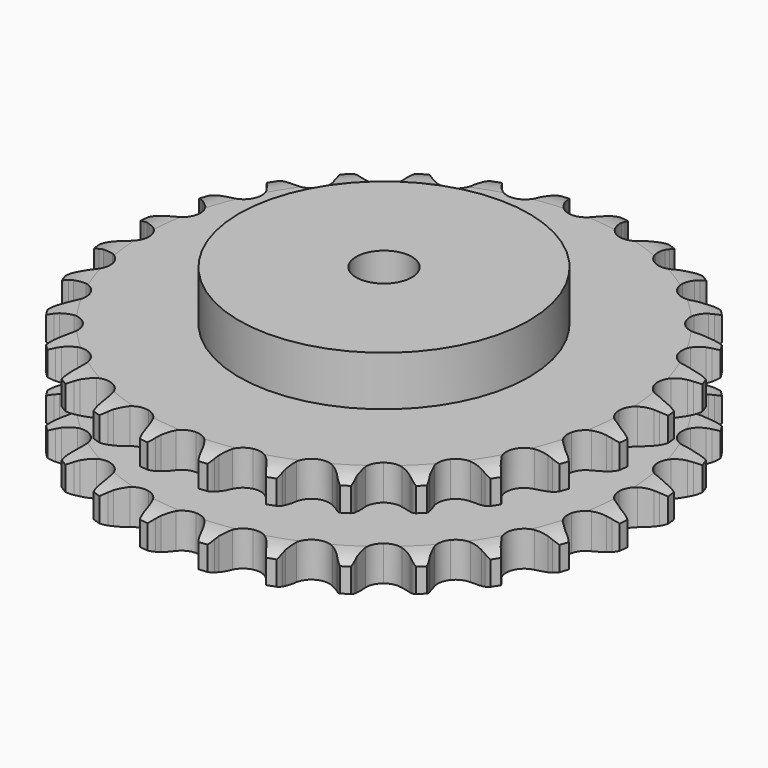
from build123d import *

# Parameters (mm, degrees)
PAD_DEPTH         = 47.7
SKETCH001_R       = 65
PAD001_DEPTH      = 70
SKETCH002_R       = 12.5
POCKET_DEPTH      = 0.0010001
POCKET_DEPTH_BACK = 70.001


with BuildPart() as part:
    # Sprocket → Pad (new body)
    with BuildSketch(Plane.XY):
        with BuildLine():
            ThreePointArc((-13.6087218558, 120.7807470712), (-11.4737737384, 118.4273480252), (-9.9738858758, 115.6261291952))
            Line((-9.9738858758, 115.6261291952), (-9.2001198747, 113.6253250337))
            ThreePointArc((-9.2001198747, 113.6253250337), (-7.9718186798, 111.0082804411), (-6.3912490164, 108.5876512327))
            ThreePointArc((-6.3912490164, 108.5876512327), (-3.5685767313, 106.2489751159), (0, 105.4110342338))
            ThreePointArc((0, 105.4110342338), (3.5685767313, 106.2489751159), (6.3912490164, 108.5876512327))
            ThreePointArc((6.3912490164, 108.5876512327), (7.9718186798, 111.0082804411), (9.2001198747, 113.6253250337))
            Line((9.2001198747, 113.6253250337), (9.9738858758, 115.6261291952))
            ThreePointArc((9.9738858758, 115.6261291952), (11.4737737384, 118.4273480252), (13.6087218558, 120.7807470712))
            ThreePointArc((13.6087218558, 120.7807470712), (15.1664618129, 118.0112820037), (16.005414525, 114.9465391302))
            Line((16.005414525, 114.9465391302), (16.3145597864, 112.8237201731))
            ThreePointArc((16.3145597864, 112.8237201731), (16.9297176989, 109.9989676233), (17.9320185086, 107.2873188053))
            ThreePointArc((17.9320185086, 107.2873188053), (20.1635161126, 104.3791745084), (23.456161787, 102.7681595265))
            ThreePointArc((23.456161787, 102.7681595265), (27.1217262368, 102.7910084541), (30.3940326282, 104.4429454048))
            Line((30.3940326282, 104.4429454048), (34.2534671088, 108.7292816391))
            ThreePointArc((34.2534671088, 108.7292816391), (34.8302308619, 109.6340457052), (35.4530539915, 110.5077423297))
            ThreePointArc((35.4530539915, 110.5077423297), (37.5386663641, 112.9049723072), (40.1437674286, 114.7242960766))
            ThreePointArc((40.1437674286, 114.7242960766), (41.0461876393, 111.6776375304), (41.1821366088, 108.5030496182))
            Line((41.1821366088, 108.5030496182), (41.011159296, 106.3646628722))
            ThreePointArc((41.011159296, 106.3646628722), (40.9823273397, 103.4738472531), (41.356099748, 100.6071522202))
            ThreePointArc((41.356099748, 100.6071522202), (42.8845260631, 97.2753662415), (45.7361336776, 94.9720601781))
            ThreePointArc((45.7361336776, 94.9720601781), (49.3148791383, 94.1786714105), (52.8727325296, 95.0610341785))
            Line((52.8727325296, 95.0610341785), (57.5892024721, 98.3810980491))
            ThreePointArc((57.5892024721, 98.3810980491), (58.3528344987, 99.1348357821), (59.154457941, 99.8480358236))
            ThreePointArc((59.154457941, 99.8480358236), (61.7212135106, 101.7210698276), (64.6658368767, 102.9150898297))
            ThreePointArc((64.6658368767, 102.9150898297), (64.8676862235, 99.744009986), (64.2938144014, 96.6187641292))
            Line((64.2938144014, 96.6187641292), (63.6512880309, 94.5720372347))
            ThreePointArc((63.6512880309, 94.5720372347), (62.9799119605, 91.7601161126), (62.7064134581, 88.8821229239))
            ThreePointArc((62.7064134581, 88.8821229239), (63.4551268066, 85.2937649247), (65.7227048482, 82.4136651635))
            ThreePointArc((65.7227048482, 82.4136651635), (69.0351780788, 80.8438225265), (72.7001728447, 80.9123657581))
            Line((72.7001728447, 80.9123657581), (78.0371747519, 83.0996753993))
            ThreePointArc((78.0371747519, 83.0996753993), (78.9493833536, 83.6645912419), (79.8896103618, 84.1815318722))
            ThreePointArc((79.8896103618, 84.1815318722), (82.8088012863, 85.4364481566), (85.9452912428, 85.9452912428))
            ThreePointArc((85.9452912428, 85.9452912428), (85.4364481566, 82.8088012863), (84.1815318722, 79.8896103618))
            Line((84.1815318722, 79.8896103618), (83.0996753993, 78.0371747519))
            ThreePointArc((83.0996753993, 78.0371747519), (81.8194208143, 75.4451495933), (80.9123657581, 72.7001728447))
            ThreePointArc((80.9123657581, 72.7001728447), (80.8438225265, 69.0351780788), (82.4136651635, 65.7227048482))
            ThreePointArc((82.4136651635, 65.7227048482), (85.2937649247, 63.4551268066), (88.8821229239, 62.7064134581))
            Line((88.8821229239, 62.7064134581), (94.5720372347, 63.6512880309))
            ThreePointArc((94.5720372347, 63.6512880309), (95.5870804632, 63.9990547439), (96.6187641292, 64.2938144014))
            ThreePointArc((96.6187641292, 64.2938144014), (99.744009986, 64.8676862235), (102.9150898297, 64.6658368767))
            ThreePointArc((102.9150898297, 64.6658368767), (101.7210698276, 61.7212135106), (99.8480358236, 59.154457941))
            Line((99.8480358236, 59.154457941), (98.3810980491, 57.5892024721))
            ThreePointArc((98.3810980491, 57.5892024721), (96.5561622604, 55.3470482418), (95.0610341785, 52.8727325296))
            ThreePointArc((95.0610341785, 52.8727325296), (94.1786714105, 49.3148791383), (94.9720601781, 45.7361336776))
            ThreePointArc((94.9720601781, 45.7361336776), (97.2753662415, 42.8845260631), (100.6071522202, 41.356099748))
            Line((100.6071522202, 41.356099748), (106.3646628722, 41.011159296))
            ThreePointArc((106.3646628722, 41.011159296), (107.4316422215, 41.1243384043), (108.5030496182, 41.1821366088))
            ThreePointArc((108.5030496182, 41.1821366088), (111.6776375304, 41.0461876393), (114.7242960766, 40.1437674286))
            ThreePointArc((114.7242960766, 40.1437674286), (112.9049723072, 37.5386663641), (110.5077423297, 35.4530539915))
            Line((110.5077423297, 35.4530539915), (108.7292816391, 34.2534671088))
            ThreePointArc((108.7292816391, 34.2534671088), (106.4511745473, 32.4736147824), (104.4429454048, 30.3940326282))
            ThreePointArc((104.4429454048, 30.3940326282), (102.7910084541, 27.1217262368), (102.7681595265, 23.456161787))
            ThreePointArc((102.7681595265, 23.456161787), (104.3791745084, 20.1635161126), (107.2873188053, 17.9320185086))
            Line((107.2873188053, 17.9320185086), (112.8237201731, 16.3145597864))
            ThreePointArc((112.8237201731, 16.3145597864), (113.8891328433, 16.1874760168), (114.9465391302, 16.005414525))
            ThreePointArc((114.9465391302, 16.005414525), (118.0112820037, 15.1664618129), (120.7807470712, 13.6087218558))
            ThreePointArc((120.7807470712, 13.6087218558), (118.4273480252, 11.4737737384), (115.6261291952, 9.9738858758))
            Line((115.6261291952, 9.9738858758), (113.6253250337, 9.2001198747))
            ThreePointArc((113.6253250337, 9.2001198747), (111.0082804411, 7.9718186798), (108.5876512327, 6.3912490164))
            ThreePointArc((108.5876512327, 6.3912490164), (106.2489751159, 3.5685767313), (105.4110342338, 0))
            ThreePointArc((105.4110342338, 0), (106.2489751159, -3.5685767313), (108.5876512327, -6.3912490164))
            Line((108.5876512327, -6.3912490164), (113.6253250337, -9.2001198747))
            ThreePointArc((113.6253250337, -9.2001198747), (114.6357467847, -9.5610940113), (115.6261291952, -9.9738858758))
            ThreePointArc((115.6261291952, -9.9738858758), (118.4273480252, -11.4737737384), (120.7807470712, -13.6087218558))
            ThreePointArc((120.7807470712, -13.6087218558), (118.0112820037, -15.1664618129), (114.9465391302, -16.005414525))
            Line((114.9465391302, -16.005414525), (112.8237201731, -16.3145597864))
            ThreePointArc((112.8237201731, -16.3145597864), (109.9989676233, -16.9297176989), (107.2873188053, -17.9320185086))
            ThreePointArc((107.2873188053, -17.9320185086), (104.3791745084, -20.1635161126), (102.7681595265, -23.456161787))
            ThreePointArc((102.7681595265, -23.456161787), (102.7910084541, -27.1217262368), (104.4429454048, -30.3940326282))
            Line((104.4429454048, -30.3940326282), (108.7292816391, -34.2534671088))
            ThreePointArc((108.7292816391, -34.2534671088), (109.6340457052, -34.8302308619), (110.5077423297, -35.4530539915))
            ThreePointArc((110.5077423297, -35.4530539915), (112.9049723072, -37.5386663641), (114.7242960766, -40.1437674286))
            ThreePointArc((114.7242960766, -40.1437674286), (111.6776375304, -41.0461876393), (108.5030496182, -41.1821366088))
            Line((108.5030496182, -41.1821366088), (106.3646628722, -41.011159296))
            ThreePointArc((106.3646628722, -41.011159296), (103.4738472531, -40.9823273397), (100.6071522202, -41.356099748))
            ThreePointArc((100.6071522202, -41.356099748), (97.2753662415, -42.8845260631), (94.9720601781, -45.7361336776))
            ThreePointArc((94.9720601781, -45.7361336776), (94.1786714105, -49.3148791383), (95.0610341785, -52.8727325296))
            Line((95.0610341785, -52.8727325296), (98.3810980491, -57.5892024721))
            ThreePointArc((98.3810980491, -57.5892024721), (99.1348357821, -58.3528344987), (99.8480358236, -59.154457941))
            ThreePointArc((99.8480358236, -59.154457941), (101.7210698276, -61.7212135106), (102.9150898297, -64.6658368767))
            ThreePointArc((102.9150898297, -64.6658368767), (99.744009986, -64.8676862235), (96.6187641292, -64.2938144014))
            Line((96.6187641292, -64.2938144014), (94.5720372347, -63.6512880309))
            ThreePointArc((94.5720372347, -63.6512880309), (91.7601161126, -62.9799119605), (88.8821229239, -62.7064134581))
            ThreePointArc((88.8821229239, -62.7064134581), (85.2937649247, -63.4551268066), (82.4136651635, -65.7227048482))
            ThreePointArc((82.4136651635, -65.7227048482), (80.8438225265, -69.0351780788), (80.9123657581, -72.7001728447))
            Line((80.9123657581, -72.7001728447), (83.0996753993, -78.0371747519))
            ThreePointArc((83.0996753993, -78.0371747519), (83.6645912419, -78.9493833536), (84.1815318722, -79.8896103618))
            ThreePointArc((84.1815318722, -79.8896103618), (85.4364481566, -82.8088012863), (85.9452912428, -85.9452912428))
            ThreePointArc((85.9452912428, -85.9452912428), (82.8088012863, -85.4364481566), (79.8896103618, -84.1815318722))
            Line((79.8896103618, -84.1815318722), (78.0371747519, -83.0996753993))
            ThreePointArc((78.0371747519, -83.0996753993), (75.4451495933, -81.8194208143), (72.7001728447, -80.9123657581))
            ThreePointArc((72.7001728447, -80.9123657581), (69.0351780788, -80.8438225265), (65.7227048482, -82.4136651635))
            ThreePointArc((65.7227048482, -82.4136651635), (63.4551268066, -85.2937649247), (62.7064134581, -88.8821229239))
            Line((62.7064134581, -88.8821229239), (63.6512880309, -94.5720372347))
            ThreePointArc((63.6512880309, -94.5720372347), (63.9990547439, -95.5870804632), (64.2938144014, -96.6187641292))
            ThreePointArc((64.2938144014, -96.6187641292), (64.8676862235, -99.744009986), (64.6658368767, -102.9150898297))
            ThreePointArc((64.6658368767, -102.9150898297), (61.7212135106, -101.7210698276), (59.154457941, -99.8480358236))
            Line((59.154457941, -99.8480358236), (57.5892024721, -98.3810980491))
            ThreePointArc((57.5892024721, -98.3810980491), (55.3470482418, -96.5561622604), (52.8727325296, -95.0610341785))
            ThreePointArc((52.8727325296, -95.0610341785), (49.3148791383, -94.1786714105), (45.7361336776, -94.9720601781))
            ThreePointArc((45.7361336776, -94.9720601781), (42.8845260631, -97.2753662415), (41.356099748, -100.6071522202))
            Line((41.356099748, -100.6071522202), (41.011159296, -106.3646628722))
            ThreePointArc((41.011159296, -106.3646628722), (41.1243384043, -107.4316422215), (41.1821366088, -108.5030496182))
            ThreePointArc((41.1821366088, -108.5030496182), (41.0461876393, -111.6776375304), (40.1437674286, -114.7242960766))
            ThreePointArc((40.1437674286, -114.7242960766), (37.5386663641, -112.9049723072), (35.4530539915, -110.5077423297))
            Line((35.4530539915, -110.5077423297), (34.2534671088, -108.7292816391))
            ThreePointArc((34.2534671088, -108.7292816391), (32.4736147824, -106.4511745473), (30.3940326282, -104.4429454048))
            ThreePointArc((30.3940326282, -104.4429454048), (27.1217262368, -102.7910084541), (23.456161787, -102.7681595265))
            ThreePointArc((23.456161787, -102.7681595265), (20.1635161126, -104.3791745084), (17.9320185086, -107.2873188053))
            Line((17.9320185086, -107.2873188053), (16.3145597864, -112.8237201731))
            ThreePointArc((16.3145597864, -112.8237201731), (16.1874760168, -113.8891328433), (16.005414525, -114.9465391302))
            ThreePointArc((16.005414525, -114.9465391302), (15.1664618129, -118.0112820037), (13.6087218558, -120.7807470712))
            ThreePointArc((13.6087218558, -120.7807470712), (11.4737737384, -118.4273480252), (9.9738858758, -115.6261291952))
            Line((9.9738858758, -115.6261291952), (9.2001198747, -113.6253250337))
            ThreePointArc((9.2001198747, -113.6253250337), (7.9718186798, -111.0082804411), (6.3912490164, -108.5876512327))
            ThreePointArc((6.3912490164, -108.5876512327), (3.5685767313, -106.2489751159), (0, -105.4110342338))
            ThreePointArc((0, -105.4110342338), (-3.5685767313, -106.2489751159), (-6.3912490164, -108.5876512327))
            Line((-6.3912490164, -108.5876512327), (-9.2001198747, -113.6253250337))
            ThreePointArc((-9.2001198747, -113.6253250337), (-9.5610940113, -114.6357467847), (-9.9738858758, -115.6261291952))
            ThreePointArc((-9.9738858758, -115.6261291952), (-11.4737737384, -118.4273480252), (-13.6087218558, -120.7807470712))
            ThreePointArc((-13.6087218558, -120.7807470712), (-15.1664618129, -118.0112820037), (-16.005414525, -114.9465391302))
            Line((-16.005414525, -114.9465391302), (-16.3145597864, -112.8237201731))
            ThreePointArc((-16.3145597864, -112.8237201731), (-16.9297176989, -109.9989676233), (-17.9320185086, -107.2873188053))
            ThreePointArc((-17.9320185086, -107.2873188053), (-20.1635161126, -104.3791745084), (-23.456161787, -102.7681595265))
            ThreePointArc((-23.456161787, -102.7681595265), (-27.1217262368, -102.7910084541), (-30.3940326282, -104.4429454048))
            Line((-30.3940326282, -104.4429454048), (-34.2534671088, -108.7292816391))
            ThreePointArc((-34.2534671088, -108.7292816391), (-34.8302308619, -109.6340457052), (-35.4530539915, -110.5077423297))
            ThreePointArc((-35.4530539915, -110.5077423297), (-37.5386663641, -112.9049723072), (-40.1437674286, -114.7242960766))
            ThreePointArc((-40.1437674286, -114.7242960766), (-41.0461876393, -111.6776375304), (-41.1821366088, -108.5030496182))
            Line((-41.1821366088, -108.5030496182), (-41.011159296, -106.3646628722))
            ThreePointArc((-41.011159296, -106.3646628722), (-40.9823273397, -103.4738472531), (-41.356099748, -100.6071522202))
            ThreePointArc((-41.356099748, -100.6071522202), (-42.8845260631, -97.2753662415), (-45.7361336776, -94.9720601781))
            ThreePointArc((-45.7361336776, -94.9720601781), (-49.3148791383, -94.1786714105), (-52.8727325296, -95.0610341785))
            Line((-52.8727325296, -95.0610341785), (-57.5892024721, -98.3810980491))
            ThreePointArc((-57.5892024721, -98.3810980491), (-58.3528344987, -99.1348357821), (-59.154457941, -99.8480358236))
            ThreePointArc((-59.154457941, -99.8480358236), (-61.7212135106, -101.7210698276), (-64.6658368767, -102.9150898297))
            ThreePointArc((-64.6658368767, -102.9150898297), (-64.8676862235, -99.744009986), (-64.2938144014, -96.6187641292))
            Line((-64.2938144014, -96.6187641292), (-63.6512880309, -94.5720372347))
            ThreePointArc((-63.6512880309, -94.5720372347), (-62.9799119605, -91.7601161126), (-62.7064134581, -88.8821229239))
            ThreePointArc((-62.7064134581, -88.8821229239), (-63.4551268066, -85.2937649247), (-65.7227048482, -82.4136651635))
            ThreePointArc((-65.7227048482, -82.4136651635), (-69.0351780788, -80.8438225265), (-72.7001728447, -80.9123657581))
            Line((-72.7001728447, -80.9123657581), (-78.0371747519, -83.0996753993))
            ThreePointArc((-78.0371747519, -83.0996753993), (-78.9493833536, -83.6645912419), (-79.8896103618, -84.1815318722))
            ThreePointArc((-79.8896103618, -84.1815318722), (-82.8088012863, -85.4364481566), (-85.9452912428, -85.9452912428))
            ThreePointArc((-85.9452912428, -85.9452912428), (-85.4364481566, -82.8088012863), (-84.1815318722, -79.8896103618))
            Line((-84.1815318722, -79.8896103618), (-83.0996753993, -78.0371747519))
            ThreePointArc((-83.0996753993, -78.0371747519), (-81.8194208143, -75.4451495933), (-80.9123657581, -72.7001728447))
            ThreePointArc((-80.9123657581, -72.7001728447), (-80.8438225265, -69.0351780788), (-82.4136651635, -65.7227048482))
            ThreePointArc((-82.4136651635, -65.7227048482), (-85.2937649247, -63.4551268066), (-88.8821229239, -62.7064134581))
            Line((-88.8821229239, -62.7064134581), (-94.5720372347, -63.6512880309))
            ThreePointArc((-94.5720372347, -63.6512880309), (-95.5870804632, -63.9990547439), (-96.6187641292, -64.2938144014))
            ThreePointArc((-96.6187641292, -64.2938144014), (-99.744009986, -64.8676862235), (-102.9150898297, -64.6658368767))
            ThreePointArc((-102.9150898297, -64.6658368767), (-101.7210698276, -61.7212135106), (-99.8480358236, -59.154457941))
            Line((-99.8480358236, -59.154457941), (-98.3810980491, -57.5892024721))
            ThreePointArc((-98.3810980491, -57.5892024721), (-96.5561622604, -55.3470482418), (-95.0610341785, -52.8727325296))
            ThreePointArc((-95.0610341785, -52.8727325296), (-94.1786714105, -49.3148791383), (-94.9720601781, -45.7361336776))
            ThreePointArc((-94.9720601781, -45.7361336776), (-97.2753662415, -42.8845260631), (-100.6071522202, -41.356099748))
            Line((-100.6071522202, -41.356099748), (-106.3646628722, -41.011159296))
            ThreePointArc((-106.3646628722, -41.011159296), (-107.4316422215, -41.1243384043), (-108.5030496182, -41.1821366088))
            ThreePointArc((-108.5030496182, -41.1821366088), (-111.6776375304, -41.0461876393), (-114.7242960766, -40.1437674286))
            ThreePointArc((-114.7242960766, -40.1437674286), (-112.9049723072, -37.5386663641), (-110.5077423297, -35.4530539915))
            Line((-110.5077423297, -35.4530539915), (-108.7292816391, -34.2534671088))
            ThreePointArc((-108.7292816391, -34.2534671088), (-106.4511745473, -32.4736147824), (-104.4429454048, -30.3940326282))
            ThreePointArc((-104.4429454048, -30.3940326282), (-102.7910084541, -27.1217262368), (-102.7681595265, -23.456161787))
            ThreePointArc((-102.7681595265, -23.456161787), (-104.3791745084, -20.1635161126), (-107.2873188053, -17.9320185086))
            Line((-107.2873188053, -17.9320185086), (-112.8237201731, -16.3145597864))
            ThreePointArc((-112.8237201731, -16.3145597864), (-113.8891328433, -16.1874760168), (-114.9465391302, -16.005414525))
            ThreePointArc((-114.9465391302, -16.005414525), (-118.0112820037, -15.1664618129), (-120.7807470712, -13.6087218558))
            ThreePointArc((-120.7807470712, -13.6087218558), (-118.4273480252, -11.4737737384), (-115.6261291952, -9.9738858758))
            Line((-115.6261291952, -9.9738858758), (-113.6253250337, -9.2001198747))
            ThreePointArc((-113.6253250337, -9.2001198747), (-111.0082804411, -7.9718186798), (-108.5876512327, -6.3912490164))
            ThreePointArc((-108.5876512327, -6.3912490164), (-106.2489751159, -3.5685767313), (-105.4110342338, 0))
            ThreePointArc((-105.4110342338, 0), (-106.2489751159, 3.5685767313), (-108.5876512327, 6.3912490164))
            Line((-108.5876512327, 6.3912490164), (-113.6253250337, 9.2001198747))
            ThreePointArc((-113.6253250337, 9.2001198747), (-114.6357467847, 9.5610940113), (-115.6261291952, 9.9738858758))
            ThreePointArc((-115.6261291952, 9.9738858758), (-118.4273480252, 11.4737737384), (-120.7807470712, 13.6087218558))
            ThreePointArc((-120.7807470712, 13.6087218558), (-118.0112820037, 15.1664618129), (-114.9465391302, 16.005414525))
            Line((-114.9465391302, 16.005414525), (-112.8237201731, 16.3145597864))
            ThreePointArc((-112.8237201731, 16.3145597864), (-109.9989676233, 16.9297176989), (-107.2873188053, 17.9320185086))
            ThreePointArc((-107.2873188053, 17.9320185086), (-104.3791745084, 20.1635161126), (-102.7681595265, 23.456161787))
            ThreePointArc((-102.7681595265, 23.456161787), (-102.7910084541, 27.1217262368), (-104.4429454048, 30.3940326282))
            Line((-104.4429454048, 30.3940326282), (-108.7292816391, 34.2534671088))
            ThreePointArc((-108.7292816391, 34.2534671088), (-109.6340457052, 34.8302308619), (-110.5077423297, 35.4530539915))
            ThreePointArc((-110.5077423297, 35.4530539915), (-112.9049723072, 37.5386663641), (-114.7242960766, 40.1437674286))
            ThreePointArc((-114.7242960766, 40.1437674286), (-111.6776375304, 41.0461876393), (-108.5030496182, 41.1821366088))
            Line((-108.5030496182, 41.1821366088), (-106.3646628722, 41.011159296))
            ThreePointArc((-106.3646628722, 41.011159296), (-103.4738472531, 40.9823273397), (-100.6071522202, 41.356099748))
            ThreePointArc((-100.6071522202, 41.356099748), (-97.2753662415, 42.8845260631), (-94.9720601781, 45.7361336776))
            ThreePointArc((-94.9720601781, 45.7361336776), (-94.1786714105, 49.3148791383), (-95.0610341785, 52.8727325296))
            Line((-95.0610341785, 52.8727325296), (-98.3810980491, 57.5892024721))
            ThreePointArc((-98.3810980491, 57.5892024721), (-99.1348357821, 58.3528344987), (-99.8480358236, 59.154457941))
            ThreePointArc((-99.8480358236, 59.154457941), (-101.7210698276, 61.7212135106), (-102.9150898297, 64.6658368767))
            ThreePointArc((-102.9150898297, 64.6658368767), (-99.744009986, 64.8676862235), (-96.6187641292, 64.2938144014))
            Line((-96.6187641292, 64.2938144014), (-94.5720372347, 63.6512880309))
            ThreePointArc((-94.5720372347, 63.6512880309), (-91.7601161126, 62.9799119605), (-88.8821229239, 62.7064134581))
            ThreePointArc((-88.8821229239, 62.7064134581), (-85.2937649247, 63.4551268066), (-82.4136651635, 65.7227048482))
            ThreePointArc((-82.4136651635, 65.7227048482), (-80.8438225265, 69.0351780788), (-80.9123657581, 72.7001728447))
            Line((-80.9123657581, 72.7001728447), (-83.0996753993, 78.0371747519))
            ThreePointArc((-83.0996753993, 78.0371747519), (-83.6645912419, 78.9493833536), (-84.1815318722, 79.8896103618))
            ThreePointArc((-84.1815318722, 79.8896103618), (-85.4364481566, 82.8088012863), (-85.9452912428, 85.9452912428))
            ThreePointArc((-85.9452912428, 85.9452912428), (-82.8088012863, 85.4364481566), (-79.8896103618, 84.1815318722))
            Line((-79.8896103618, 84.1815318722), (-78.0371747519, 83.0996753993))
            ThreePointArc((-78.0371747519, 83.0996753993), (-75.4451495933, 81.8194208143), (-72.7001728447, 80.9123657581))
            ThreePointArc((-72.7001728447, 80.9123657581), (-69.0351780788, 80.8438225265), (-65.7227048482, 82.4136651635))
            ThreePointArc((-65.7227048482, 82.4136651635), (-63.4551268066, 85.2937649247), (-62.7064134581, 88.8821229239))
            Line((-62.7064134581, 88.8821229239), (-63.6512880309, 94.5720372347))
            ThreePointArc((-63.6512880309, 94.5720372347), (-63.9990547439, 95.5870804632), (-64.2938144014, 96.6187641292))
            ThreePointArc((-64.2938144014, 96.6187641292), (-64.8676862235, 99.744009986), (-64.6658368767, 102.9150898297))
            ThreePointArc((-64.6658368767, 102.9150898297), (-61.7212135106, 101.7210698276), (-59.154457941, 99.8480358236))
            Line((-59.154457941, 99.8480358236), (-57.5892024721, 98.3810980491))
            ThreePointArc((-57.5892024721, 98.3810980491), (-55.3470482418, 96.5561622604), (-52.8727325296, 95.0610341785))
            ThreePointArc((-52.8727325296, 95.0610341785), (-49.3148791383, 94.1786714105), (-45.7361336776, 94.9720601781))
            ThreePointArc((-45.7361336776, 94.9720601781), (-42.8845260631, 97.2753662415), (-41.356099748, 100.6071522202))
            Line((-41.356099748, 100.6071522202), (-41.011159296, 106.3646628722))
            ThreePointArc((-41.011159296, 106.3646628722), (-41.1243384043, 107.4316422215), (-41.1821366088, 108.5030496182))
            ThreePointArc((-41.1821366088, 108.5030496182), (-41.0461876393, 111.6776375304), (-40.1437674286, 114.7242960766))
            ThreePointArc((-40.1437674286, 114.7242960766), (-37.5386663641, 112.9049723072), (-35.4530539915, 110.5077423297))
            Line((-35.4530539915, 110.5077423297), (-34.2534671088, 108.7292816391))
            ThreePointArc((-34.2534671088, 108.7292816391), (-32.4736147824, 106.4511745473), (-30.3940326282, 104.4429454048))
            ThreePointArc((-30.3940326282, 104.4429454048), (-27.1217262368, 102.7910084541), (-23.456161787, 102.7681595265))
            ThreePointArc((-23.456161787, 102.7681595265), (-20.1635161126, 104.3791745084), (-17.9320185086, 107.2873188053))
            Line((-17.9320185086, 107.2873188053), (-16.3145597864, 112.8237201731))
            ThreePointArc((-16.3145597864, 112.8237201731), (-16.1874760168, 113.8891328433), (-16.005414525, 114.9465391302))
            ThreePointArc((-16.005414525, 114.9465391302), (-15.1664618129, 118.0112820037), (-13.6087218558, 120.7807470712))
        make_face()
    extrude(amount=PAD_DEPTH)

    # Sketch → Groove (revolve, cut)
    with BuildSketch(Plane.XZ):
        with BuildLine():
            ThreePointArc((107.7257022694, 0), (113.4265793949, 0.6326982121), (118.85, 2.5))
            Line((118.85, 2.5), (118.85, 13.3))
            ThreePointArc((118.85, 13.3), (113.4265793949, 15.1673017879), (107.7257022694, 15.8))
            Line((65, 15.8), (107.7257022694, 15.8))
            Line((65, 31.9), (65, 15.8))
            Line((107.7257022694, 31.9), (65, 31.9))
            ThreePointArc((107.7257022694, 31.9), (113.4265793949, 32.5326982121), (118.85, 34.4))
            Line((118.85, 34.4), (118.85, 45.2))
            ThreePointArc((118.85, 45.2), (113.4265793949, 47.0673017879), (107.7257022694, 47.7))
            Line((107.7257022694, 47.7), (128.85, 47.7))
            Line((128.85, 47.7), (128.85, 0))
            Line((107.7257022694, 0), (128.85, 0))
        make_face()
    revolve(axis=Axis((0, 0, 0), (0, 0, 1)), mode=Mode.SUBTRACT)

    # Sketch001 → Pad001 (join)
    with BuildSketch(Plane.XY):
        Circle(SKETCH001_R)
    extrude(amount=PAD001_DEPTH)

    # Sketch002 → Pocket (cut, two sides)
    with BuildSketch(Plane.XY) as pocket_sk:
        Circle(SKETCH002_R)
    extrude(amount=-POCKET_DEPTH, mode=Mode.SUBTRACT)
    extrude(pocket_sk.sketch, amount=POCKET_DEPTH_BACK, mode=Mode.SUBTRACT)


solid = part.part
